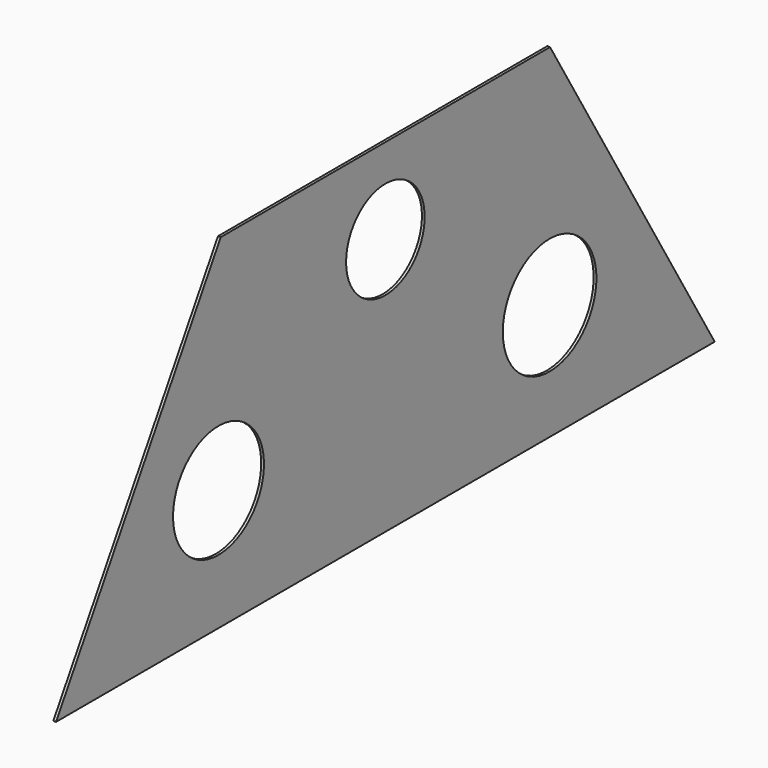
from build123d import *

# Parameters (mm, degrees)
F1_DEPTH = 2.54
F2_R     = 54.123828
F2_R_2   = 52.579777
F2_R_3   = 45.446147
F3_DEPTH = 2.541


with BuildPart() as f1:
    # F0 (on Right) → F1 (new body)
    with BuildSketch(Plane.YZ):
        Polygon((190.5, 248.964207), (-190.5, 248.964207), (-381, -68.535793), (381, -68.535793), align=None)
    extrude(amount=F1_DEPTH)

    # F2 (on face) → F3 (cut, through all)
    with BuildSketch(Plane(origin=(0, 0, 0), x_dir=(0, -1, 0), z_dir=(-1, 0, 0))):
        with Locations((-189.982191, 38.922913)):
            Circle(F2_R)
        with Locations((193.065658, 43.670133)):
            Circle(F2_R_2)
        with Locations((0, 169.674546)):
            Circle(F2_R_3)
    extrude(amount=-F3_DEPTH, mode=Mode.SUBTRACT)


solid = f1.part
